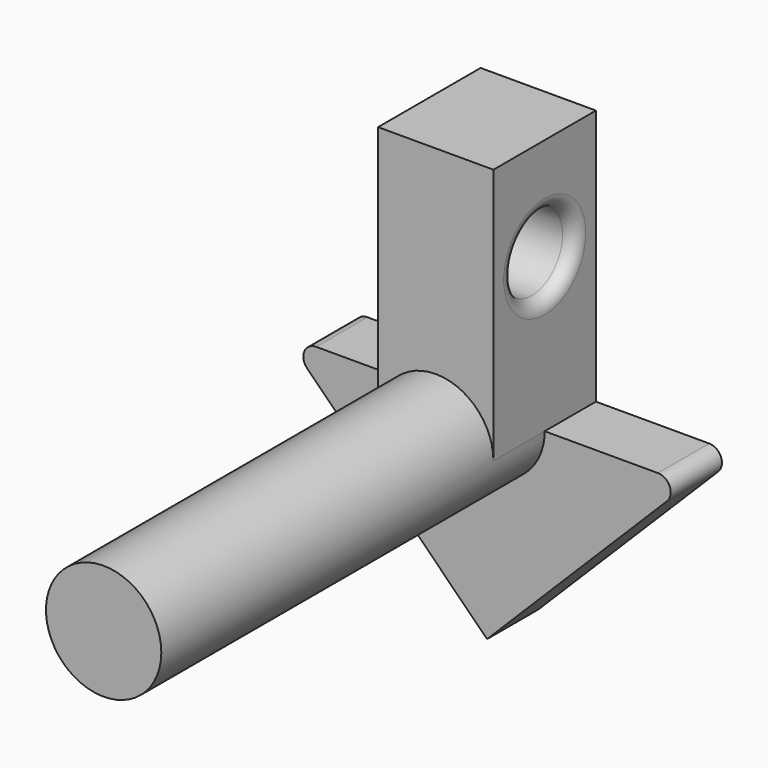
from build123d import *

# Parameters (mm, degrees)
F1_DEPTH = 6.35
F2_DEPTH = 53.848
F3_DEPTH = 12.7
F5_R     = 3.81
F6_DEPTH = 51.116
F7_R     = 1.27
F8_R     = 1.27


with BuildPart() as f1:
    # F0 (on Front) → F1 (new body)
    with BuildSketch(Plane.XZ):
        with BuildLine():
            Line((-20, 20), (0, 0))
            Line((0, 0), (20, 20))
            Line((20, 20), (5.715, 20))
            ThreePointArc((5.715, 20), (0, 14.285), (-5.715, 20))
            Line((-5.715, 20), (-20, 20))
        make_face()
    extrude(amount=F1_DEPTH)

    # F0 (on Front) → F2 (join)
    with BuildSketch(Plane.XZ):
        with BuildLine():
            ThreePointArc((-5.715, 20), (0, 14.285), (5.715, 20))
            Line((5.715, 20), (-5.715, 20))
        make_face()
        with BuildLine():
            Line((-5.715, 20), (5.715, 20))
            ThreePointArc((5.715, 20), (0, 25.715), (-5.715, 20))
        make_face()
    extrude(amount=F2_DEPTH)

    # F0 (on Front) → F3 (join)
    with BuildSketch(Plane.XZ):
        with BuildLine():
            ThreePointArc((-5.715, 20), (0, 25.715), (5.715, 20))
            Line((5.715, 20), (5.715, 45.4))
            Line((5.715, 45.4), (-5.715, 45.4))
            Line((-5.715, 45.4), (-5.715, 20))
        make_face()
    extrude(amount=F3_DEPTH)

    # F5 (on offset) → F6 (cut, through all)
    with BuildSketch(Plane.YZ.offset(31.115)):
        with Locations((-6.35, 35.24)):
            Circle(F5_R)
    extrude(amount=-F6_DEPTH, mode=Mode.SUBTRACT)

    # F7
    f7_edges = [f1.edges().sort_by_distance(p)[0] for p in [
        (5.715, -10.16, 35.24),
        (-5.715, -10.16, 35.24),
    ]]
    fillet(f7_edges, radius=F7_R)

    # F8
    f8_edges = [f1.edges().sort_by_distance(p)[0] for p in [
        (-20, -3.175, 20),
        (20, -3.175, 20),
    ]]
    fillet(f8_edges, radius=F8_R)


solid = f1.part
